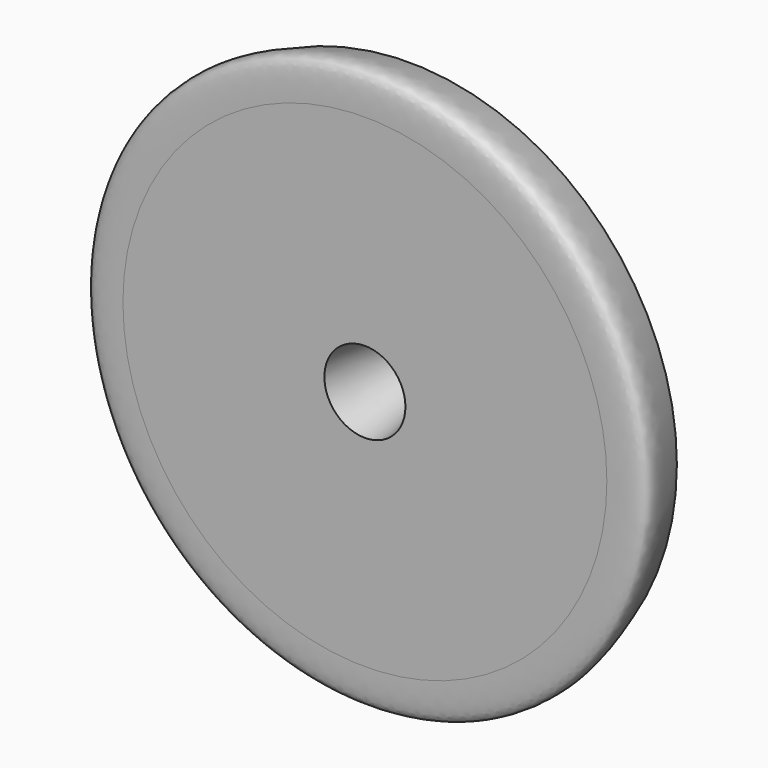
from build123d import *


with BuildPart() as f1:
    # F0 (on Top) → F1 (revolve)
    with BuildSketch(Plane.XY):
        with BuildLine():
            Line((81.5841653567, -41.3534980938), (-31.4977876842, 16.4519678801))
            Line((-31.4977876842, 16.4519678801), (-20.0158346433, -53.8555905223))
            Line((-20.0158346433, -53.8555905223), (108.2541653567, -53.8555905223))
            add(Edge.make_bspline(
                [(108.2541653567, -41.1555905223), (110.9703740455, -39.490270612), (116.3989569116, -36.161981748), (113.247392372, -26.9833561081), (112.2315130114, -22.4813241475), (114.8022067207, -19.7183520035), (124.0191759407, -13.512816471), (128.0031608589, -28.3008188672), (133.6776767108, -44.5333587876), (130.7968835042, -54.4311906968), (116.9800777584, -54.0783958055), (108.2541653567, -53.8555905223)],
                knots=[0, 0, 0, 0, 0.105446419, 0.2107439778, 0.2852006156, 0.3536940363, 0.4553878061, 0.5808119493, 0.7351241905, 0.8327194321, 1, 1, 1, 1], degree=3))
            Line((108.2541653567, -41.1555905223), (108.2541653567, -41.3534980938))
            Line((108.2541653567, -41.3534980938), (81.5841653567, -41.3534980938))
        make_face()
        with BuildLine():
            add(Edge.make_bspline(
                [(8.1702219322, -22.0765750855), (6.8463701887, -22.5224667689), (10.4000510067, -30.3234689661), (0.7154113481, -43.0644861787), (-19.6472725958, -24.3461573438), (-15.906486101, -44.8141720881), (1.2723795165, -42.9048554375), (3.2094415875, -53.5397309686), (27.2737952189, -33.6007648923), (10.0748158529, -21.4350813581), (8.1702219322, -22.0765750855)],
                knots=[0, 0, 0, 0, 0.0960582964, 0.2167558419, 0.3655041479, 0.4768408032, 0.6136795219, 0.6992981516, 0.8618032205, 1, 1, 1, 1], degree=3))
        make_face(mode=Mode.SUBTRACT)
        with BuildLine():
            add(Edge.make_bspline(
                [(32.0747941732, -26.5762582421), (30.7339864579, -28.5737009072), (32.0636154073, -34.6007523067), (34.5486576557, -40.3170973412), (26.0727970573, -40.3121353117), (20.4199557482, -47.8364267478), (49.7188330505, -53.859467065), (41.4797992702, -23.0656996643), (33.2947171072, -24.7589013696), (32.0747941732, -26.5762582421)],
                knots=[0, 0, 0, 0, 0.1344596141, 0.2346918248, 0.3578682511, 0.4634409138, 0.6617629639, 0.8776630198, 1, 1, 1, 1], degree=3))
        make_face(mode=Mode.SUBTRACT)
        with BuildLine():
            add(Edge.make_bspline(
                [(-7.2974408977, -12.2335152701), (-9.0517616675, -11.371518343), (-14.2824343478, -14.0511345944), (-13.5015624809, -6.5568602881), (-18.886781382, -6.6792440236), (-17.8833193567, -15.1108958109), (-17.5813720906, -20.1408706852), (-13.576852719, -23.8073309809), (-10.3803678695, -24.5688957206), (-4.6864120462, -23.8915551205), (0.9558861049, -22.3988524683), (1.055202411, -12.5416658166), (-4.1086923759, -18.8180064715), (-5.5216435306, -13.1060648629), (-7.2974408977, -12.2335152701)],
                knots=[0, 0, 0, 0, 0.0887695082, 0.1707713121, 0.2335016765, 0.3348006202, 0.422211003, 0.5039305286, 0.5709133698, 0.6598484424, 0.7478466786, 0.8387515786, 0.9101437652, 1, 1, 1, 1], degree=3))
        make_face(mode=Mode.SUBTRACT)
        with BuildLine():
            add(Edge.make_bspline(
                [(-7.2974408977, -7.4526011012), (-8.4702668662, -8.0379467371), (-13.6818070954, -4.9597869946), (-8.6043464955, -0.1189763045), (-16.1286684026, 5.0951800913), (-7.2318703856, 0.7993109328), (-5.8412304983, -6.7258211484), (-7.2974408977, -7.4526011012)],
                knots=[0, 0, 0, 0, 0.1885366406, 0.3784822084, 0.5588385283, 0.7659081364, 1, 1, 1, 1], degree=3))
        make_face(mode=Mode.SUBTRACT)
        with BuildLine():
            add(Edge.make_bspline(
                [(8.1702219322, -22.0765750855), (6.8463701887, -22.5224667689), (10.4000510067, -30.3234689661), (0.7154113481, -43.0644861787), (-19.6472725958, -24.3461573438), (-15.906486101, -44.8141720881), (1.2723795165, -42.9048554375), (3.2094415875, -53.5397309686), (27.2737952189, -33.6007648923), (10.0748158529, -21.4350813581), (8.1702219322, -22.0765750855)],
                knots=[0, 0, 0, 0, 0.0960582964, 0.2167558419, 0.3655041479, 0.4768408032, 0.6136795219, 0.6992981516, 0.8618032205, 1, 1, 1, 1], degree=3))
        make_face()
        with BuildLine():
            add(Edge.make_bspline(
                [(32.0747941732, -26.5762582421), (30.7339864579, -28.5737009072), (32.0636154073, -34.6007523067), (34.5486576557, -40.3170973412), (26.0727970573, -40.3121353117), (20.4199557482, -47.8364267478), (49.7188330505, -53.859467065), (41.4797992702, -23.0656996643), (33.2947171072, -24.7589013696), (32.0747941732, -26.5762582421)],
                knots=[0, 0, 0, 0, 0.1344596141, 0.2346918248, 0.3578682511, 0.4634409138, 0.6617629639, 0.8776630198, 1, 1, 1, 1], degree=3))
        make_face()
        with BuildLine():
            add(Edge.make_bspline(
                [(-7.2974408977, -12.2335152701), (-9.0517616675, -11.371518343), (-14.2824343478, -14.0511345944), (-13.5015624809, -6.5568602881), (-18.886781382, -6.6792440236), (-17.8833193567, -15.1108958109), (-17.5813720906, -20.1408706852), (-13.576852719, -23.8073309809), (-10.3803678695, -24.5688957206), (-4.6864120462, -23.8915551205), (0.9558861049, -22.3988524683), (1.055202411, -12.5416658166), (-4.1086923759, -18.8180064715), (-5.5216435306, -13.1060648629), (-7.2974408977, -12.2335152701)],
                knots=[0, 0, 0, 0, 0.0887695082, 0.1707713121, 0.2335016765, 0.3348006202, 0.422211003, 0.5039305286, 0.5709133698, 0.6598484424, 0.7478466786, 0.8387515786, 0.9101437652, 1, 1, 1, 1], degree=3))
        make_face()
        with BuildLine():
            add(Edge.make_bspline(
                [(-7.2974408977, -7.4526011012), (-8.4702668662, -8.0379467371), (-13.6818070954, -4.9597869946), (-8.6043464955, -0.1189763045), (-16.1286684026, 5.0951800913), (-7.2318703856, 0.7993109328), (-5.8412304983, -6.7258211484), (-7.2974408977, -7.4526011012)],
                knots=[0, 0, 0, 0, 0.1885366406, 0.3784822084, 0.5588385283, 0.7659081364, 1, 1, 1, 1], degree=3))
        make_face()
    revolve(axis=Axis((-45.825984329, -9.985063225, 0), (0, -1, 0)))


solid = f1.part
